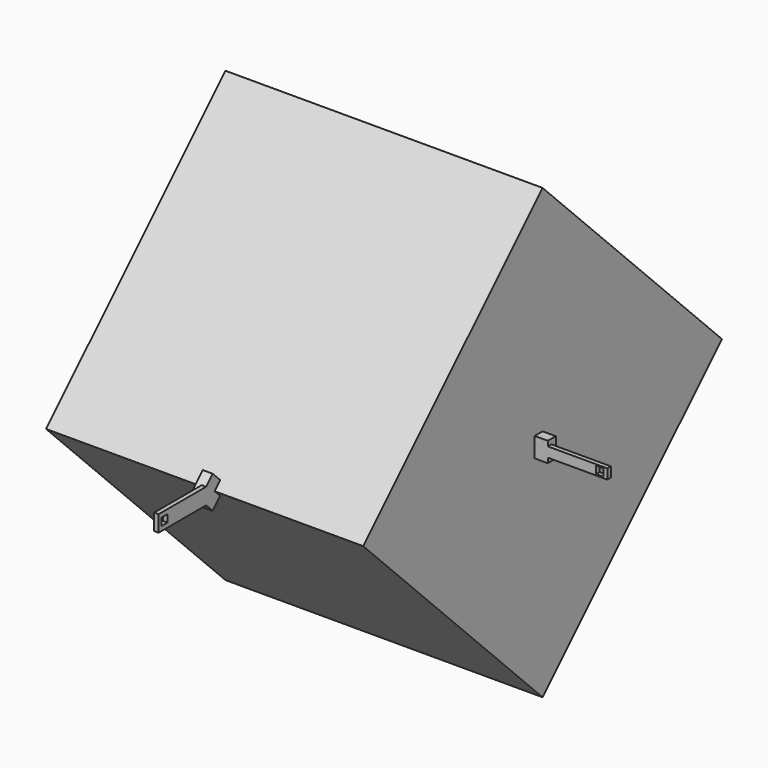
from build123d import *

# Parameters (mm, degrees)
F1_W      = 609.6
F1_H      = 609.6
F2_DEPTH  = 304.8
F5_ANGLE  = 45
F6_W      = 19.05
F6_H      = 19.05
F7_DEPTH  = 25.4
F8_W      = 19.05
F8_H      = 25.4
F8_H_2    = 19.05
F9_DEPTH  = 25.4
F11_DEPTH = 25.4
F12_W     = 14.2875
F12_H     = 14.2875
F13_DEPTH = 8.4666666667
F14_W     = 14.2875
F14_H     = 14.2875
F15_DEPTH = 8.4666666667


with BuildPart() as f2:
    # F1 (on Top) → F2 (new body, symmetric)
    with BuildSketch(Plane.XY):
        Rectangle(F1_W, F1_H)
    extrude(amount=F2_DEPTH, both=True)


with BuildPart() as f2_1:
    # F5: moved
    add(f2.part.rotate(Axis((626.1159181595, 0, 0), (1, 0, 0)), F5_ANGLE))


with BuildPart() as f7:
    # F6 (on face) → F7 (new body)
    with BuildSketch(Plane(origin=(0, -215.5261469057, 215.5261469057), x_dir=(1, 0, 0), z_dir=(0, -0.7071067812, 0.7071067812))):
        with Locations((9.525, -295.275)):
            Rectangle(F6_W, F6_H)
    extrude(amount=F7_DEPTH)

    # F8 (on face) → F9 (join)
    with BuildSketch(Plane(origin=(0, -215.5261469057, -215.5261469057), x_dir=(1, 0, 0), z_dir=(0, -0.7071067812, -0.7071067812))):
        with Locations((9.525, 317.5)):
            Rectangle(F8_W, F8_H)
        with Locations((9.525, 295.275)):
            Rectangle(F8_W, F8_H_2)
        with Locations((9.525, 317.5)):
            Rectangle(F8_W, F8_H)
    extrude(amount=F9_DEPTH)

    # F12 (on face) → F13 (join)
    with BuildSketch(Plane.YZ.offset(19.05)):
        Polygon((-565.5578700837, -15.7154482119), (-451.2578700837, -15.7154482119), (-466.9733182956, 0), (-451.2578700837, 15.7154482119), (-565.5578700837, 15.7154482119), align=None)
        with Locations((-551.2703700837, 0)):
            Rectangle(F12_W, F12_H, mode=Mode.SUBTRACT)
    extrude(amount=-F13_DEPTH)


with BuildPart() as f11:
    # F10 (on face) → F11 (new body)
    with BuildSketch(Plane.YZ.offset(304.8)):
        Polygon((0, 0), (0, 19.05), (-19.05, 19.05), (-19.05, -19.05), (0, -19.05), align=None)
    extrude(amount=F11_DEPTH)

    # F14 (on face) → F15 (join)
    with BuildSketch(Plane.XZ.offset(19.05)):
        Polygon((444.5, 9.525), (330.2, 9.525), (330.2, 0), (330.2, -9.525), (444.5, -9.525), align=None)
        with Locations((430.2125, 0)):
            Rectangle(F14_W, F14_H, mode=Mode.SUBTRACT)
    extrude(amount=-F15_DEPTH)


solid = Compound([f2_1.part, f7.part, f11.part])
